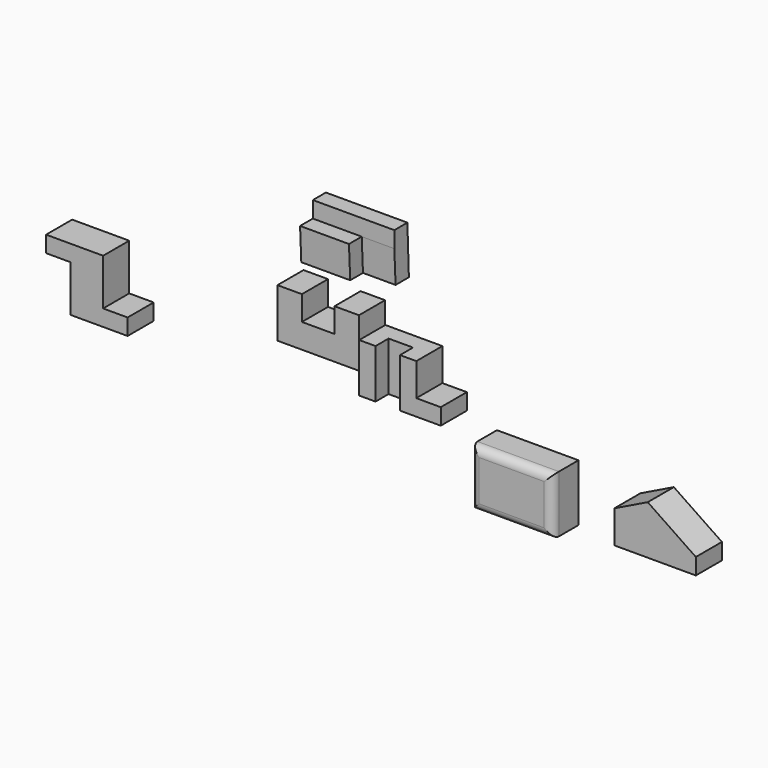
from build123d import *

# Parameters (mm, degrees)
F1_DEPTH  = 101.6
F3_DEPTH  = 254
F5_DEPTH  = 101.6
F7_DEPTH  = 101.6
F8_W      = 76.2
F8_H      = 50.8
F9_DEPTH  = 152.4
F11_DEPTH = 101.6
F13_DEPTH = 101.6
F14_W     = 254
F14_H     = 177.8
F15_DEPTH = 101.6
F16_R     = 25.4


with BuildPart() as f1:
    # F0 (on Front) → F1 (new body)
    with BuildSketch(Plane.XZ):
        Polygon((0, 152.4), (0, 0), (254, 0), (254, 152.4), (177.8, 152.4), (177.8, 76.2), (76.2, 76.2), (76.2, 152.4), align=None)
    extrude(amount=-F1_DEPTH)


with BuildPart() as f3:
    # F2 (on Right) → F3 (new body)
    with BuildSketch(Plane.YZ):
        Polygon((405.579255, 67.330746), (410.3731, -34.156095), (511.9731, -34.156095), (506.101318, 118.130746), (455.301318, 118.130746), (455.301318, 67.330746), align=None)
    extrude(amount=-F3_DEPTH)

    # F4 (on face) → F5 (cut)
    with BuildSketch(Plane.YZ):
        Polygon((460.095163, -34.156095), (455.301318, 67.330746), (405.579255, 67.330746), (410.3731, -34.156095), align=None)
    extrude(amount=-F5_DEPTH, mode=Mode.SUBTRACT)


with BuildPart() as f7:
    # F6 (on Front) → F7 (new body)
    with BuildSketch(Plane.XZ):
        Polygon((336.144794, 152.4), (336.144794, 0), (590.144794, 0), (590.144794, 50.8), (513.944794, 50.8), (513.944794, 152.4), align=None)
    extrude(amount=F7_DEPTH)

    # F8 (on face) → F9 (cut)
    with BuildSketch(Plane.XY.offset(152.4)):
        with Locations((425.044794, -76.2)):
            Rectangle(F8_W, F8_H)
    extrude(amount=-F9_DEPTH, mode=Mode.SUBTRACT)


with BuildPart() as f11:
    # F10 (on Front) → F11 (new body)
    with BuildSketch(Plane.XZ):
        Polygon((-461.851425, 124.14594), (-639.651425, 124.14594), (-639.651425, 73.34594), (-563.451425, 73.34594), (-563.451425, -71.264796), (-385.651425, -71.264796), (-385.651425, -20.464796), (-461.851425, -20.464796), align=None)
    extrude(amount=F11_DEPTH)


with BuildPart() as f13:
    # F12 (on Front) → F13 (new body)
    with BuildSketch(Plane.XZ):
        Polygon((1130.984204, -50.8), (1130.984204, -152.4), (1235.189269, -152.4), (1235.189269, 0), align=None)
        Polygon((1235.189269, 0), (1235.189269, -152.4), (1384.984204, -152.4), (1384.984204, -101.6), align=None)
    extrude(amount=F13_DEPTH)


with BuildPart() as f15:
    # F14 (on Front) → F15 (new body)
    with BuildSketch(Plane.XZ):
        with Locations((811.015688, -111.928712)):
            Rectangle(F14_W, F14_H)
    extrude(amount=F15_DEPTH)

    # F16
    f16_edges = [f15.edges().sort_by_distance(p)[0] for p in [
        (811.015688, -101.6, -23.028712),
        (684.015688, -101.6, -111.928712),
        (811.015688, -101.6, -200.828712),
        (938.015688, -101.6, -111.928712),
    ]]
    fillet(f16_edges, radius=F16_R)


solid = Compound([f1.part, f3.part, f7.part, f11.part, f13.part, f15.part])
